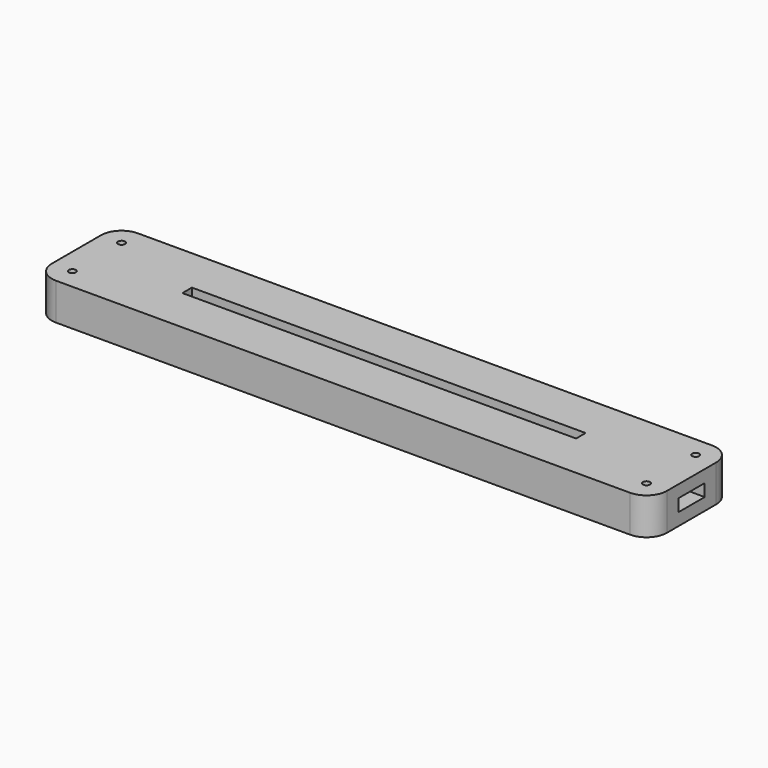
from build123d import *

# Parameters (mm, degrees)
SKETCH_W              = 150
SKETCH_H              = 25
PAD_DEPTH             = 3
PAD001_DEPTH          = 3
SKETCH004_W           = 150
SKETCH004_H           = 25
SKETCH004_W_2         = 96
SKETCH004_H_2         = 2.9
PAD002_DEPTH          = 3
SKETCH005_R           = 0.85
POCKET_DEPTH          = 313.671314
POLARPATTERN_COUNT    = 2
POLARPATTERN001_COUNT = 2
POLARPATTERN002_COUNT = 2
FILLET_R              = 5


with BuildPart() as part:
    # Sketch → Pad (new body)
    with BuildSketch(Plane.XY):
        Rectangle(SKETCH_W, SKETCH_H)
    extrude(amount=PAD_DEPTH)

    # Sketch001 (on Face6 of Pad) → Pad001 (join)
    with BuildSketch(Plane.XY.offset(3)):
        Polygon((-75, 12.5), (75, 12.5), (75, 4), (50, 4), (50, 5), (-50, 5), (-50, 4), (-52.25, 4), (-52.25, 9.2), (-72.25, 9.2), (-72.25, 4.5), (-75, 4.5), align=None)
        Polygon((-75, -12.5), (75, -12.5), (75, -4), (50, -4), (50, -5), (-50, -5), (-50, -4), (-52.25, -4), (-52.25, -9.2), (-72.25, -9.2), (-72.25, -4.5), (-75, -4.5), align=None)
    extrude(amount=PAD001_DEPTH)

    # Sketch004 (on Face12 of Pad001) → Pad002 (join)
    with BuildSketch(Plane.XY.offset(6)):
        Rectangle(SKETCH004_W, SKETCH004_H)
        Rectangle(SKETCH004_W_2, SKETCH004_H_2, mode=Mode.SUBTRACT)
    extrude(amount=PAD002_DEPTH)

    # Sketch005 (on Face34 of Pad002) → Pocket (cut, through all)
    with BuildSketch(Plane.XY.offset(9)):
        with Locations((-70, 7.5)):
            Circle(SKETCH005_R)
    pocket = extrude(amount=-POCKET_DEPTH, mode=Mode.SUBTRACT)

    # PolarPattern: Pocket ×2 about axis
    polarpattern_axis = Axis((0, 0, 9), (0, 0, 1))
    for i in range(1, POLARPATTERN_COUNT):
        add(pocket.rotate(polarpattern_axis, i * 360 / POLARPATTERN_COUNT), mode=Mode.SUBTRACT)

    # PolarPattern001: Pocket ×2 about axis
    polarpattern001_axis = Axis((0, 0, 0), (0, 1, 0))
    for i in range(1, POLARPATTERN001_COUNT):
        add(pocket.rotate(polarpattern001_axis, i * 360 / POLARPATTERN001_COUNT), mode=Mode.SUBTRACT)

    # PolarPattern002: Pocket ×2 about axis
    polarpattern002_axis = Axis((0, 0, 0), (1, 0, 0))
    for i in range(1, POLARPATTERN002_COUNT):
        add(pocket.rotate(polarpattern002_axis, i * 360 / POLARPATTERN002_COUNT), mode=Mode.SUBTRACT)

    # Fillet
    fillet_edges = [part.edges().sort_by_distance(p)[0] for p in [
        (75, -12.5, 7.5),
        (75, 12.5, 7.5),
        (-75, -12.5, 7.5),
        (-75, 12.5, 7.5),
    ]]
    fillet(fillet_edges, radius=FILLET_R)


solid = part.part
